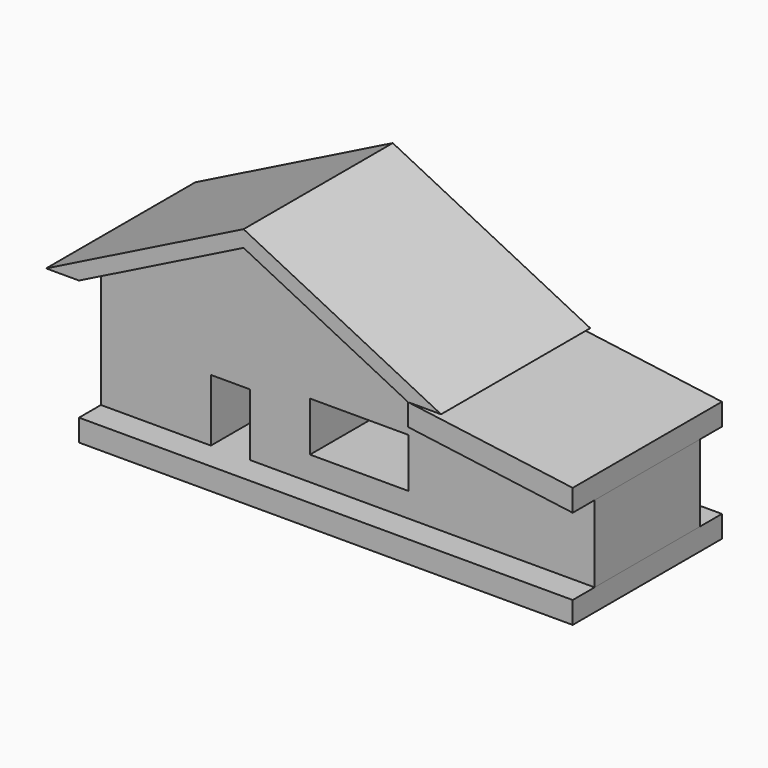
from build123d import *

# Parameters (mm, degrees)
F1_DEPTH = 2590.8
F0_W     = 4572
F0_H     = 609.6
F0_W_2   = 2743.2
F0_H_2   = 1371.6
F2_DEPTH = 1828.8


with BuildPart() as f1:
    # F0 (on Front) → F1 (new body, symmetric)
    with BuildSketch(Plane.XZ):
        Polygon((-5486.4, 0), (-4572, 0), (0, 2286), (0, 2743.2), align=None)
        Polygon((0, 2286), (4572, 0), (5486.4, 0), (0, 2743.2), align=None)
    extrude(amount=F1_DEPTH, both=True)


with BuildPart() as f1b:
    # F0 (on Front) → F1, piece 2 (new body, symmetric)
    with BuildSketch(Plane.XZ):
        Polygon((9144, -609.6), (4572, 0), (4572, -609.6), (9144, -1219.2), align=None)
    extrude(amount=F1_DEPTH, both=True)


with BuildPart() as f1c:
    # F0 (on Front) → F1, piece 3 (new body, symmetric)
    with BuildSketch(Plane.XZ):
        with Locations((6858, -3657.6)):
            Rectangle(F0_W, F0_H)
        Polygon((-1517.6217556, -3352.8), (-4572, -3352.8), (-4572, -3962.4), (4572, -3962.4), (4572, -3352.8), (-424.1059720516, -3352.8), align=None)
    extrude(amount=F1_DEPTH, both=True)


with BuildPart() as f2:
    # F0 (on Front) → F2 (new body, symmetric)
    with BuildSketch(Plane.XZ):
        Polygon((-4572, 0), (0, 0), (0, 2286), align=None)
        Polygon((0, 2286), (0, 0), (4572, 0), align=None)
        Polygon((4572, 0), (0, 0), (-4572, 0), (-4572, -3352.8), (-1517.6217556, -3352.8), (-1517.6217556, -1624.0663528442), (-424.1059720516, -1624.0663528442), (-424.1059720516, -3352.8), (4572, -3352.8), (4572, -609.6), align=None)
        with Locations((2607.5299659729, -1992.2576705933)):
            Rectangle(F0_W_2, F0_H_2, mode=Mode.SUBTRACT)
        Polygon((9144, -1219.2), (4572, -609.6), (4572, -3352.8), (9144, -3352.8), align=None)
    extrude(amount=F2_DEPTH, both=True)


solid = Compound([f1.part, f1b.part, f1c.part, f2.part])
